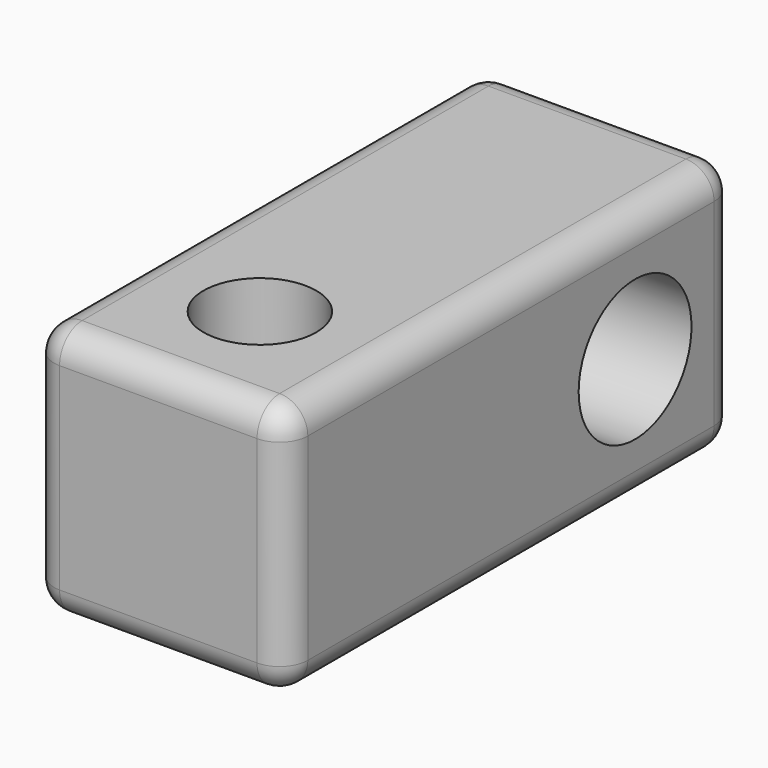
from build123d import *

# Parameters (mm, degrees)
F0_W     = 45
F0_H     = 45
F1_DEPTH = 100
F2_R     = 5
F3_R     = 10
F4_DEPTH = 45
F5_R     = 12.5
F6_DEPTH = 45


with BuildPart() as f1:
    # F0 (on Front) → F1 (new body)
    with BuildSketch(Plane.XZ):
        with Locations((-22.5, 22.5)):
            Rectangle(F0_W, F0_H)
    extrude(amount=F1_DEPTH)

    # F2
    f2_edges = [f1.edges().sort_by_distance(p)[0] for p in [
        (-22.5, -100, 0),
        (0, -100, 22.5),
        (-22.5, -100, 45),
        (-45, -100, 22.5),
        (-45, -50, 45),
        (-45, -50, 0),
        (-45, 0, 22.5),
        (0, -50, 45),
        (-22.5, 0, 45),
        (0, -50, 0),
        (0, 0, 22.5),
        (-22.5, 0, 0),
    ]]
    fillet(f2_edges, radius=F2_R)

    # F3 (on face) → F4 (cut)
    with BuildSketch(Plane.XY.offset(45)):
        with Locations((-22.5, -77.5)):
            Circle(F3_R)
    extrude(amount=-F4_DEPTH, mode=Mode.SUBTRACT)

    # F5 (on face) → F6 (cut)
    with BuildSketch(Plane(origin=(-45, 0, 0), x_dir=(0, -1, 0), z_dir=(-1, 0, 0))):
        with Locations((22.5, 22.5)):
            Circle(F5_R)
    extrude(amount=-F6_DEPTH, mode=Mode.SUBTRACT)


solid = f1.part
